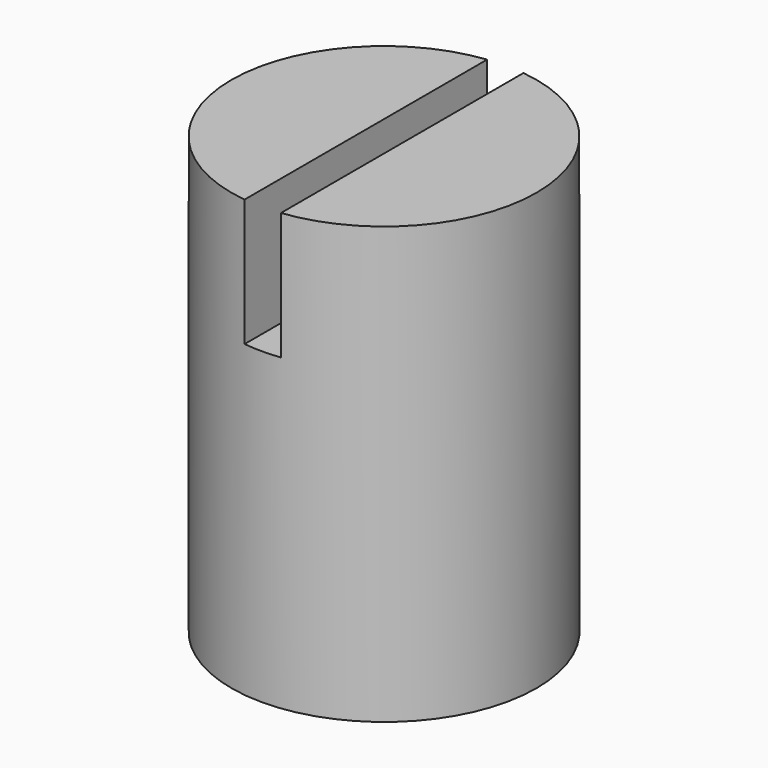
from build123d import *

# Parameters (mm, degrees)
F0_R          = 21
F1_DEPTH      = 60
F2_W          = 5
F2_H          = 35
F3_DEPTH      = 21.001
F3_DEPTH_BACK = 21.001


with BuildPart() as f1:
    # F0 (on Top) → F1 (new body)
    with BuildSketch(Plane.XY):
        Circle(F0_R)
    extrude(amount=-F1_DEPTH)

    # F2 (on Front) → F3 (cut, two sides)
    with BuildSketch(Plane.XZ) as f3_sk:
        Rectangle(F2_W, F2_H)
    extrude(amount=F3_DEPTH, mode=Mode.SUBTRACT)
    extrude(f3_sk.sketch, amount=-F3_DEPTH_BACK, mode=Mode.SUBTRACT)


solid = f1.part
